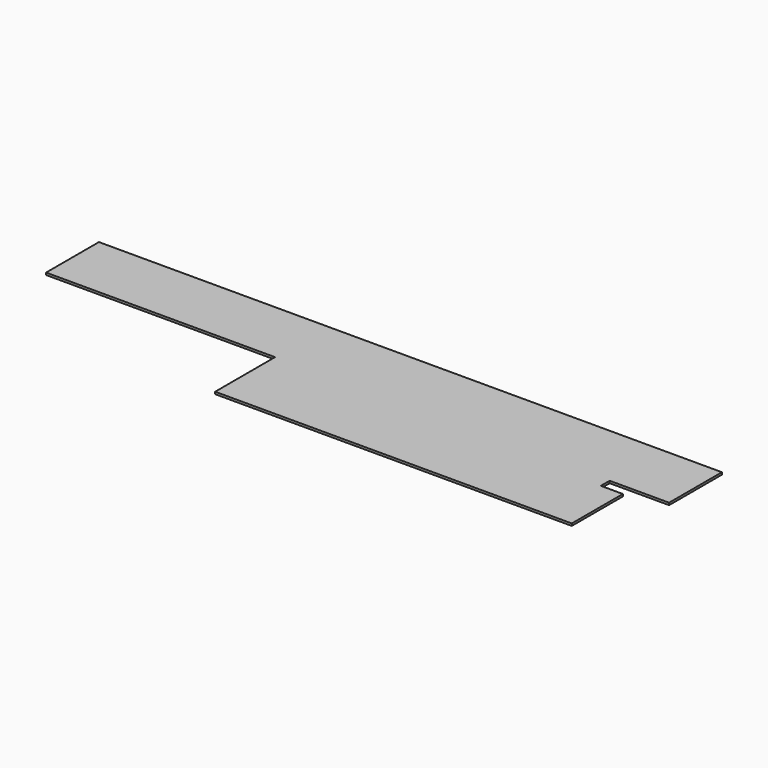
from build123d import *

# Parameters (mm, degrees)
F1_DEPTH = 50


with BuildPart() as f1:
    # F0 (on Top) → F1 (new body)
    with BuildSketch(Plane.XY):
        Polygon((-4402.744429, 1500), (-4402.744429, 0), (797.255571, 0), (797.255571, -1700), (8897.255571, -1700), (8897.255571, -250), (8397.255571, -250), (8397.255571, 0), (9747.255571, 0), (9747.255571, 1500), align=None)
    extrude(amount=-F1_DEPTH)


solid = f1.part
